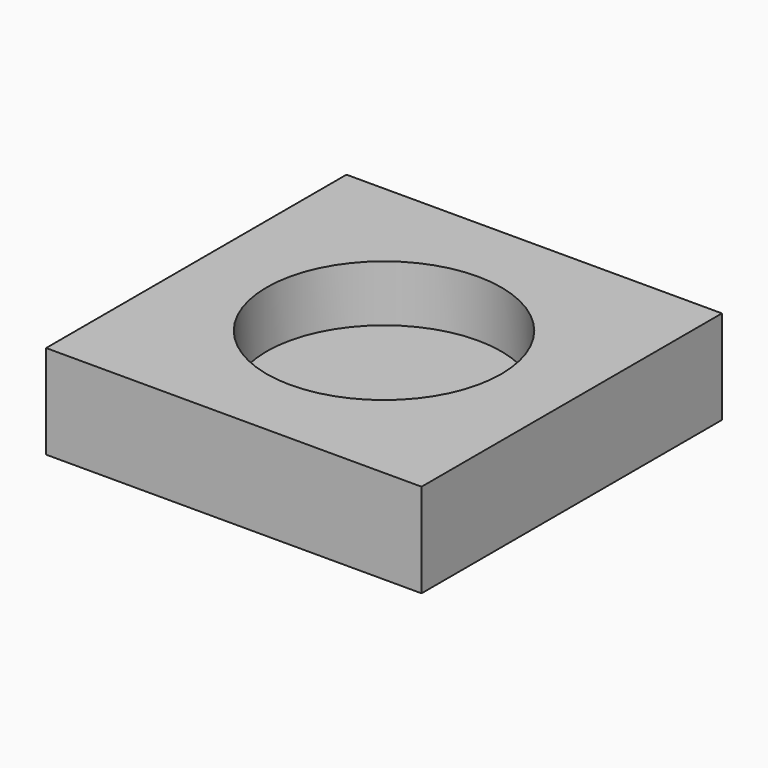
from build123d import *

# Parameters (mm, degrees)
SKETCH_W     = 40
SKETCH_H     = 40
PAD_DEPTH    = 10
SKETCH003_R  = 12.5
POCKET_DEPTH = 6


with BuildPart() as part:
    # Sketch → Pad (new body)
    with BuildSketch(Plane.XY):
        Rectangle(SKETCH_W, SKETCH_H)
    extrude(amount=-PAD_DEPTH)

    # Sketch001 → Groove (revolve, cut)
    with BuildSketch(Plane.XZ):
        Polygon((0, 0), (0, -5), (2.5, -3.249481), (2.5, 0), align=None)
    revolve(axis=Axis((0, 0, 0), (0, 0, 1)), mode=Mode.SUBTRACT)

    # Sketch003 → Pocket (cut)
    with BuildSketch(Plane.XY):
        Circle(SKETCH003_R)
    extrude(amount=-POCKET_DEPTH, mode=Mode.SUBTRACT)


solid = part.part
